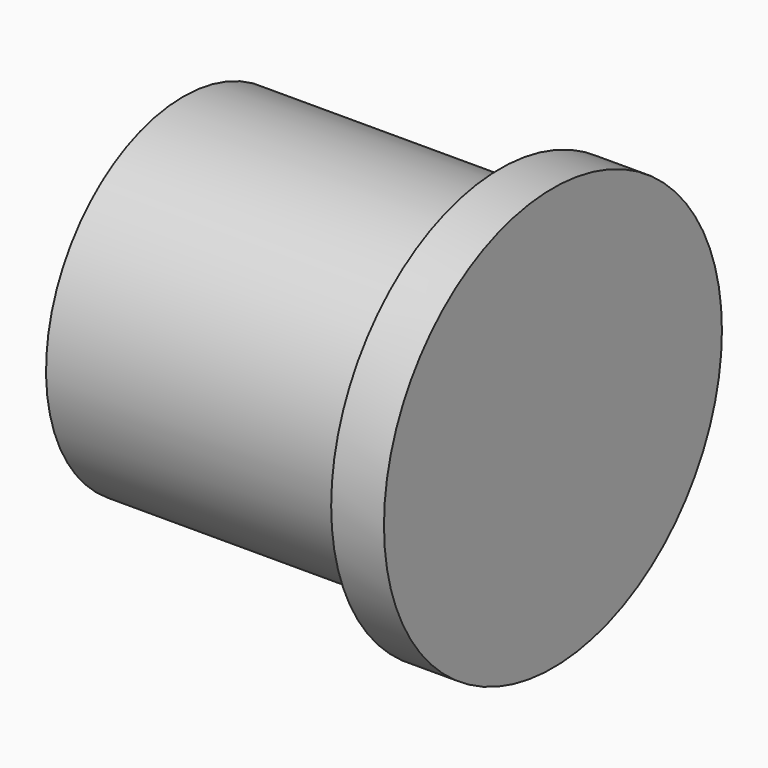
from build123d import *

# Parameters (mm, degrees)
F0_R     = 41.275
F1_DEPTH = 88.9
F2_R     = 50.8
F2_R_2   = 41.275
F3_DEPTH = 12.7
F5_DEPTH = 76.2
F6_R     = 38.1
F7_DEPTH = 76.2


with BuildPart() as f1:
    # F0 (on Right) → F1 (new body)
    with BuildSketch(Plane.YZ):
        Circle(F0_R)
    extrude(amount=F1_DEPTH)

    # F2 (on face) → F3 (join)
    with BuildSketch(Plane.YZ.offset(88.9)):
        Circle(F2_R)
        Circle(F2_R_2, mode=Mode.SUBTRACT)
    extrude(amount=-F3_DEPTH)

    # F4 (on face) → F5 (cut)
    with BuildSketch(Plane.YZ):
        with BuildLine():
            Line((6.35, -21.4923172526), (-6.35, -21.4923172526))
            Line((-6.35, -21.4923172526), (-6.35, -40.7836134373))
            ThreePointArc((-6.35, -40.7836134373), (0, -41.275), (6.35, -40.7836134373))
            Line((6.35, -40.7836134373), (6.35, -21.4923172526))
        make_face()
    extrude(amount=F5_DEPTH, mode=Mode.SUBTRACT)

    # F6 (on face) → F7 (cut)
    with BuildSketch(Plane.YZ):
        Circle(F6_R)
    extrude(amount=F7_DEPTH, mode=Mode.SUBTRACT)


solid = f1.part
